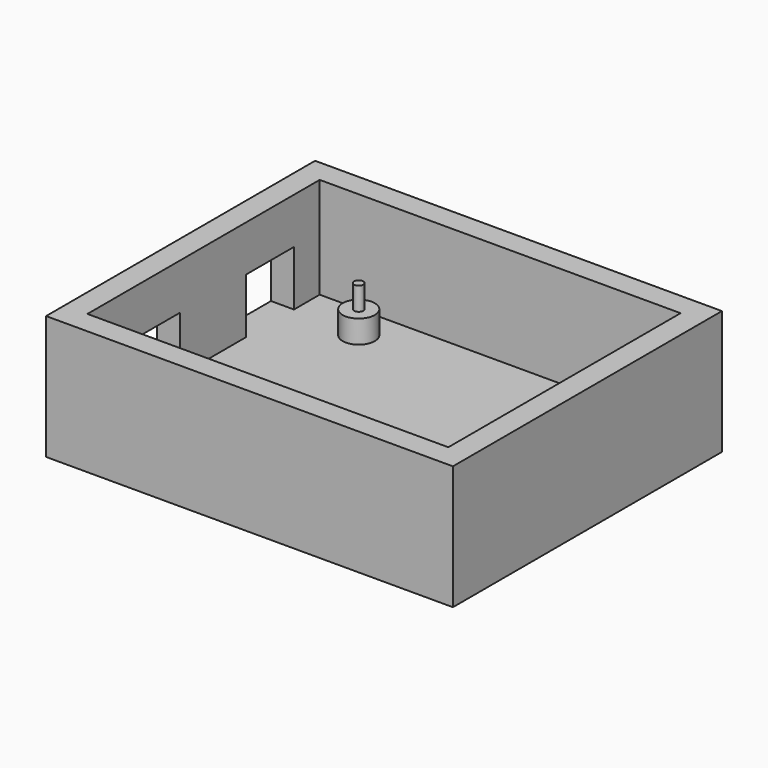
from build123d import *

# Parameters (mm, degrees)
F1_W          = 88.56
F1_H          = 73.2
F2_DEPTH      = 22
F2_DEPTH_BACK = 5
F3_W          = 78.56
F3_H          = 63.2
F4_DEPTH      = 34.1
F7_R          = 3.5
F7_R_2        = 1
F8_DEPTH      = 5
F6_W          = 13
F6_H          = 12
F6_W_2        = 10
F9_DEPTH      = 25
F10_R         = 1
F11_DEPTH     = 10


with BuildPart() as f2:
    # F1 (on Top) → F2 (new body, two sides)
    with BuildSketch(Plane.XY) as f2_sk:
        with Locations((1.572817, 11.100315)):
            Rectangle(F1_W, F1_H)
    extrude(amount=F2_DEPTH)
    extrude(f2_sk.sketch, amount=-F2_DEPTH_BACK)

    # F3 (on Top) → F4 (cut)
    with BuildSketch(Plane.XY):
        with Locations((1.572817, 11.100315)):
            Rectangle(F3_W, F3_H)
    extrude(amount=F4_DEPTH, mode=Mode.SUBTRACT)

    # F7 (on face) → F8 (join)
    with BuildSketch(Plane.XY):
        with Locations((28.572817, 35.200315)):
            Circle(F7_R)
        with Locations((28.572817, 35.200315)):
            Circle(F7_R_2, mode=Mode.SUBTRACT)
        with Locations((28.572817, 6.700315)):
            Circle(F7_R)
        with Locations((28.572817, 6.700315)):
            Circle(F7_R_2, mode=Mode.SUBTRACT)
        with Locations((-23.207183, 35.200315)):
            Circle(F7_R)
        with Locations((-23.207183, 35.200315)):
            Circle(F7_R_2, mode=Mode.SUBTRACT)
        with Locations((-23.207183, -12.999685)):
            Circle(F7_R)
        with Locations((-23.207183, -12.999685)):
            Circle(F7_R_2, mode=Mode.SUBTRACT)
    extrude(amount=F8_DEPTH)

    # F6 (on face) → F9 (cut)
    with BuildSketch(Plane.YZ.offset(-37.707183)):
        with Locations((29.200315, 6)):
            Rectangle(F6_W, F6_H)
        with Locations((-0.299685, 6)):
            Rectangle(F6_W_2, F6_H)
    extrude(amount=-F9_DEPTH, mode=Mode.SUBTRACT)

    # F10 (on face) → F11 (join)
    with BuildSketch(Plane.XY):
        with Locations((28.572817, 35.200315)):
            Circle(F10_R)
        with Locations((28.572817, 6.700315)):
            Circle(F10_R)
        with Locations((-23.207183, -12.999685)):
            Circle(F10_R)
        with Locations((-23.207183, 35.200315)):
            Circle(F10_R)
    extrude(amount=F11_DEPTH)


solid = f2.part
